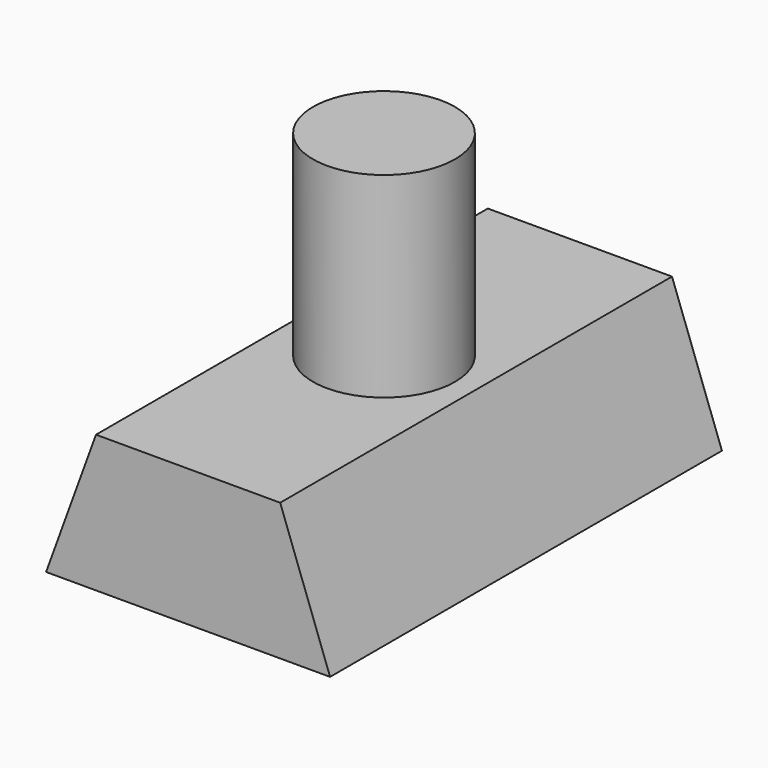
from build123d import *

# Parameters (mm, degrees)
F1_DEPTH = 31.75
F2_R     = 4.6025
F3_DEPTH = 12.7


with BuildPart() as f1:
    # F0 (on Front) → F1 (new body)
    with BuildSketch(Plane.XZ):
        Polygon((-5.97, 8.888089), (-9.205, 0), (9.205, 0), (5.97, 8.888089), align=None)
    extrude(amount=-F1_DEPTH)

    # F2 (on face) → F3 (join)
    with BuildSketch(Plane.XY.offset(8.888089)):
        with Locations((0, 15.875)):
            Circle(F2_R)
    extrude(amount=F3_DEPTH)


solid = f1.part
